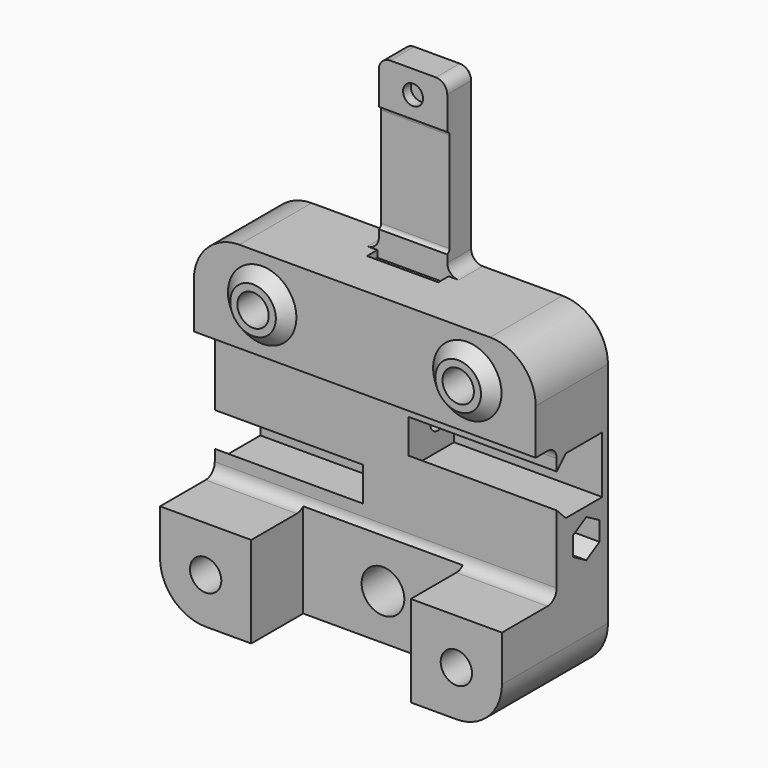
from build123d import *

# Parameters (mm, degrees)
PAD025_DEPTH          = 24
POCKET273_DEPTH       = 30.001
POCKET273_DEPTH_BACK  = 30.001
SKETCH402_W           = 28
SKETCH402_H           = 11.4
POCKET274_DEPTH       = 28.001
SKETCH404_W           = 60
SKETCH404_H           = 7.4
POCKET275_DEPTH       = 28.001
SKETCH405_R           = 2.75
POCKET276_DEPTH       = 20.701
SKETCH406_R           = 5
POCKET277_DEPTH       = 3.001
POCKET278_DEPTH       = 5.001
SKETCH408_R           = 3.75
POCKET279_DEPTH       = 18.701
POCKET280_DEPTH       = 197.021467
SKETCH410_R           = 1.75
POCKET281_DEPTH       = 201.021467
POCKET281_DEPTH_BACK  = 201.021467
POCKET282_DEPTH       = 195.021467
POLARPATTERN003_COUNT = 2
PAD026_DEPTH          = 6
POCKET283_DEPTH       = 6.25
SKETCH414_R           = 1.75
POCKET284_DEPTH       = 19.701
SKETCH415_R           = 3
POCKET285_DEPTH       = 4.001
CHAMFER024_SIZE       = 0.75


with BuildPart() as part:
    # Sketch400 → Pad025 (new body)
    with BuildSketch(Plane.XZ):
        with BuildLine():
            Line((-30, 20), (-30, -20))
            ThreePointArc((-30, -20), (-27.656854, -25.656854), (-22, -28))
            Line((-22, -28), (22, -28))
            ThreePointArc((22, -28), (27.656854, -25.656854), (30, -20))
            Line((30, -20), (30, 20))
            ThreePointArc((30, 20), (27.656854, 25.656854), (22, 28))
            Line((22, 28), (-22, 28))
            ThreePointArc((-22, 28), (-27.656854, 25.656854), (-30, 20))
        make_face()
    extrude(amount=-PAD025_DEPTH)

    # Sketch401 → Pocket273 (cut, two sides)
    with BuildSketch(Plane.YZ) as pocket273_sk:
        with BuildLine():
            Line((-12, 10), (-12, -10))
            ThreePointArc((-12, -10), (-11.414214, -11.414214), (-10, -12))
            Line((-10, -12), (10, -12))
            ThreePointArc((10, -12), (11.414214, -11.414214), (12, -10))
            Line((12, -10), (12, 10))
            ThreePointArc((12, 10), (11.414214, 11.414214), (10, 12))
            Line((10, 12), (-10, 12))
            ThreePointArc((-10, 12), (-11.414214, 11.414214), (-12, 10))
        make_face()
    extrude(amount=-POCKET273_DEPTH, mode=Mode.SUBTRACT)
    extrude(pocket273_sk.sketch, amount=POCKET273_DEPTH_BACK, mode=Mode.SUBTRACT)

    # Sketch402 → Pocket274 (cut, through all)
    with BuildSketch(Plane.XY):
        with Locations((0, 5.7)):
            Rectangle(SKETCH402_W, SKETCH402_H)
    extrude(amount=-POCKET274_DEPTH, mode=Mode.SUBTRACT)

    # Sketch404 → Pocket275 (cut, through all)
    with BuildSketch(Plane.XY):
        with Locations((0, 3.7)):
            Rectangle(SKETCH404_W, SKETCH404_H)
    extrude(amount=POCKET275_DEPTH, mode=Mode.SUBTRACT)

    # Sketch403 → Revolution012 (revolve)
    with BuildSketch(Plane.XY.offset(20)):
        Polygon((18, 7.4), (18, 5.4), (22, 5.4), (24, 7.4), align=None)
    revolution012 = revolve(axis=Axis((18, 7.4, 20), (0, -1, 0)))

    # Mirrored020: Revolution012 across YZ
    add(revolution012.mirror(Plane.YZ))

    # Sketch405 → Pocket276 (cut, through all)
    with BuildSketch(Plane.XZ.offset(-20.7)):
        with Locations((-18, 20)):
            Circle(SKETCH405_R)
        with Locations((18, 20)):
            Circle(SKETCH405_R)
        with Locations((-22, -20)):
            Circle(SKETCH405_R)
        with Locations((22, -20)):
            Circle(SKETCH405_R)
    extrude(amount=POCKET276_DEPTH, mode=Mode.SUBTRACT)

    # Sketch406 → Pocket277 (cut, through all)
    with BuildSketch(Plane.XZ.offset(-21)):
        with Locations((-18, 20)):
            Circle(SKETCH406_R)
        with Locations((18, 20)):
            Circle(SKETCH406_R)
        with Locations((-22, -20)):
            Circle(SKETCH406_R)
        with Locations((22, -20)):
            Circle(SKETCH406_R)
    extrude(amount=-POCKET277_DEPTH, mode=Mode.SUBTRACT)

    # Sketch407 → Pocket278 (cut, through all)
    with BuildSketch(Plane.XZ.offset(-19)):
        with BuildLine():
            ThreePointArc((10, -20), (0, -10), (-10, -20))
            Line((-10, -20), (-10, -25))
            ThreePointArc((-13, -28), (-10.87868, -27.12132), (-10, -25))
            Line((-13, -28), (13, -28))
            ThreePointArc((10, -25), (10.87868, -27.12132), (13, -28))
            Line((10, -25), (10, -20))
        make_face()
    extrude(amount=-POCKET278_DEPTH, mode=Mode.SUBTRACT)

    # Sketch408 → Pocket279 (cut, through all)
    with BuildSketch(Plane.XZ.offset(-18.7)):
        with Locations((0, -20)):
            Circle(SKETCH408_R)
    extrude(amount=POCKET279_DEPTH, mode=Mode.SUBTRACT)

    # Sketch409 → Pocket280 (cut, through all)
    with BuildSketch(Plane.YZ.offset(-4)):
        Polygon((14, 0), (22, 0), (22, -10), (14, -10), (12, -8), (12, -2), align=None)
    pocket280 = extrude(amount=-POCKET280_DEPTH, mode=Mode.SUBTRACT)

    # Sketch410 → Pocket281 (cut, two sides)
    with BuildSketch(Plane.YZ) as pocket281_sk:
        with Locations((18.5, -5)):
            Circle(SKETCH410_R)
    pocket281 = extrude(amount=-POCKET281_DEPTH, mode=Mode.SUBTRACT) + extrude(pocket281_sk.sketch, amount=POCKET281_DEPTH_BACK, mode=Mode.SUBTRACT)

    # Sketch411 → Pocket282 (cut, through all)
    with BuildSketch(Plane.YZ.offset(6)):
        Polygon((21.4, -6.674316), (21.4, -3.325684), (18.5, -1.651368), (15.6, -3.325684), (15.6, -6.674316), (18.5, -8.348632), align=None)
    pocket282 = extrude(amount=POCKET282_DEPTH, mode=Mode.SUBTRACT)

    # PolarPattern003: Pocket282, Pocket280, Pocket281 ×2 about axis
    polarpattern003_axis = Axis((0, 0, 0), (0, 1, 0))
    for i in range(1, POLARPATTERN003_COUNT):
        add(pocket282.rotate(polarpattern003_axis, i * 360 / POLARPATTERN003_COUNT), mode=Mode.SUBTRACT)
        add(pocket280.rotate(polarpattern003_axis, i * 360 / POLARPATTERN003_COUNT), mode=Mode.SUBTRACT)
        add(pocket281.rotate(polarpattern003_axis, i * 360 / POLARPATTERN003_COUNT), mode=Mode.SUBTRACT)

    # Sketch412 → Pad026 (join)
    with BuildSketch(Plane.XZ.offset(-24)):
        with BuildLine():
            ThreePointArc((6, 30), (6.585786, 28.585786), (8, 28))
            Line((-8, 28), (8, 28))
            ThreePointArc((-8, 28), (-6.585786, 28.585786), (-6, 30))
            Line((-6, 56), (-6, 30))
            ThreePointArc((-4, 58), (-5.414214, 57.414214), (-6, 56))
            Line((4, 58), (-4, 58))
            ThreePointArc((6, 56), (5.414214, 57.414214), (4, 58))
            Line((6, 30), (6, 56))
        make_face()
    extrude(amount=PAD026_DEPTH)

    # Sketch413 → Pocket283 (cut, symmetric)
    with BuildSketch(Plane.YZ):
        Polygon((18, 28), (18, 26.8), (16.917157, 26.8), (15.717157, 28), align=None)
        with BuildLine():
            ThreePointArc((18.5, 49.5), (17.75, 50.25), (17, 49.5))
            Line((17, 49.5), (17, 32))
            ThreePointArc((17, 32), (17.75, 31.25), (18.5, 32))
            Line((18.5, 32), (18.5, 49.5))
        make_face()
    extrude(amount=POCKET283_DEPTH, both=True, mode=Mode.SUBTRACT)

    # Sketch414 → Pocket284 (cut, through all)
    with BuildSketch(Plane.XZ.offset(-19.7)):
        with Locations((0, 54)):
            Circle(SKETCH414_R)
    extrude(amount=POCKET284_DEPTH, mode=Mode.SUBTRACT)

    # Sketch415 → Pocket285 (cut, through all)
    with BuildSketch(Plane.XZ.offset(-20)):
        with Locations((0, 54)):
            Circle(SKETCH415_R)
    extrude(amount=-POCKET285_DEPTH, mode=Mode.SUBTRACT)

    # Chamfer024
    chamfer024_edges = [part.edges().sort_by_distance(p)[0] for p in [
        (-15, 24, 28),
        (17, 24, -20),
        (13, 24, 20),
        (-23, 24, 20),
        (-27, 24, -20),
    ]]
    chamfer(chamfer024_edges, length=CHAMFER024_SIZE)


solid = part.part
